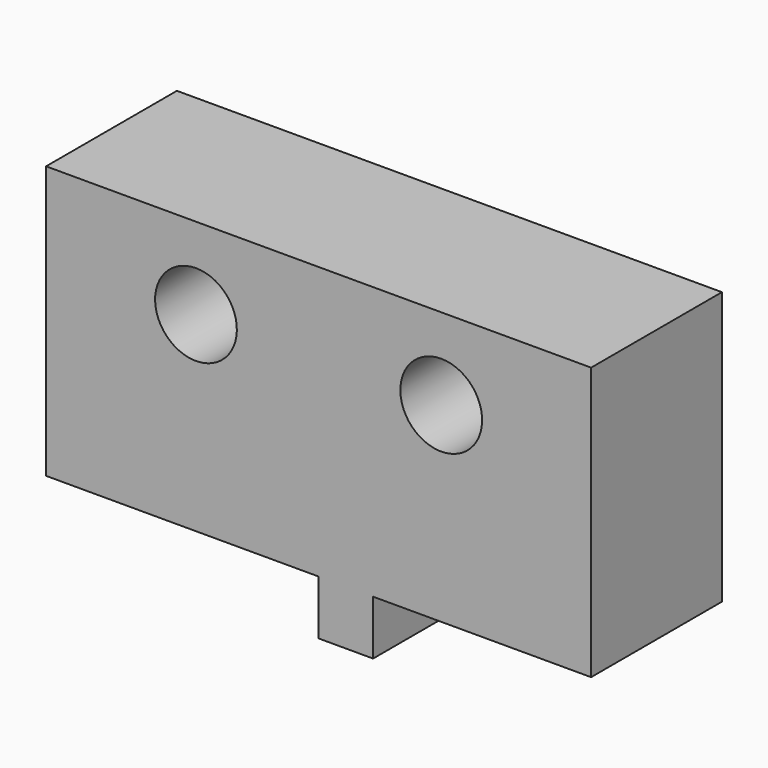
from build123d import *

# Parameters (mm, degrees)
CYLINDER033_R           = 1.5
CYLINDER033_DEPTH       = 10
ARRAY001016_Y_COUNT     = 2
ARRAY001016_Y_PITCH     = 9
BOX016_W                = 6
BOX016_H                = 20
BOX016_DEPTH            = 10
BOX017_W                = 6
BOX017_H                = 2
BOX017_DEPTH            = 2
BODY002_ROLL_ANGLE      = 180
BODY002_PLACEMENT_ANGLE = -90


with BuildPart() as end_stop_hole_array:
    # Cylinder033 → Cylinder033 (new body)
    with BuildSketch(Plane(origin=(-2, 5.5, 3), x_dir=(0, 0, -1), z_dir=(1, 0, 0))):
        Circle(CYLINDER033_R)
    extrude(amount=CYLINDER033_DEPTH)

    # Array001016 Y: end stop hole array ×2


with BuildPart() as end_stop_hole_array_1:
    add(end_stop_hole_array.part)
    with Locations(*[(0, i * ARRAY001016_Y_PITCH, 0) for i in range(1, ARRAY001016_Y_COUNT)]):
        add(end_stop_hole_array.part)


with BuildPart() as end_stop_body_cube:
    # Box016 → Box016 (new body)
    with BuildSketch(Plane.XY):
        with Locations((3, 10)):
            Rectangle(BOX016_W, BOX016_H)
    extrude(amount=BOX016_DEPTH)


with BuildPart() as end_stop_clone001:
    # Box017 → Box017 (new body)
    with BuildSketch(Plane(origin=(0, 8, 10), x_dir=(1, 0, 0), z_dir=(0, 0, 1))):
        with Locations((3, 1)):
            Rectangle(BOX017_W, BOX017_H)
    extrude(amount=BOX017_DEPTH)

    # Fusion013: union end stop body cube
    add(end_stop_body_cube.part)

    # Cut013: cut end stop hole array
    add(end_stop_hole_array_1.part, mode=Mode.SUBTRACT)


with BuildPart() as end_stop_clone001_1:
    # Body002 roll: moved
    add(end_stop_clone001.part.rotate(Axis((0, 0, 0), (1, 0, 0)), BODY002_ROLL_ANGLE))


with BuildPart() as end_stop_clone001_2:
    # Body002 placement: moved
    add(end_stop_clone001_1.part.moved(Location((139, 87.2588, 10.0341))).rotate(Axis((139, 87.2588, 10.0341), (0, 0, 1)), BODY002_PLACEMENT_ANGLE))


solid = end_stop_clone001_2.part
